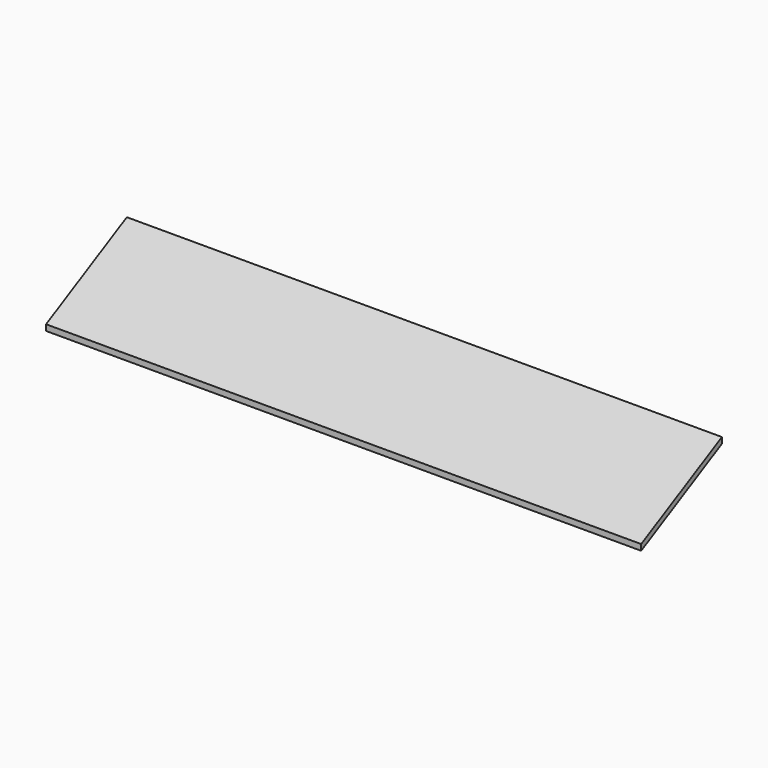
from build123d import *

# Parameters (mm, degrees)
F5_DEPTH = 14376.4


with BuildPart() as f5:
    # F3 (on offset) → F5 (new body)
    with BuildSketch(Plane.YZ.offset(6705.6)):
        Polygon((-1219.2, 2968.635144), (1219.2, 4254.053674), (1219.2, 4397.619522), (-1219.2, 3112.200992), align=None)
    extrude(amount=-F5_DEPTH)


solid = f5.part
